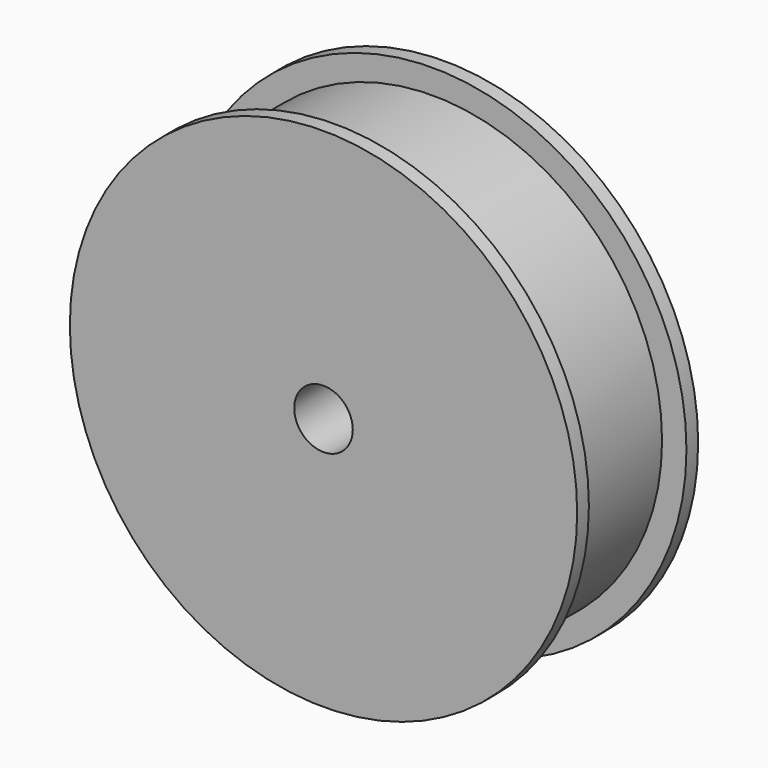
from build123d import *


with BuildPart() as part:
    # Sketch → Revolve (revolve)
    with BuildSketch(Plane.XY):
        Polygon((3, -10.6), (3, 10.6), (7.5, 10.6), (7.5, 4.9), (26, 4.9), (26, 3.4), (23.5, 3.4), (23.5, -9.1), (26, -9.1), (26, -10.6), align=None)
    revolve(axis=Axis((0, 0, 0), (0, 1, 0)))


solid = part.part
